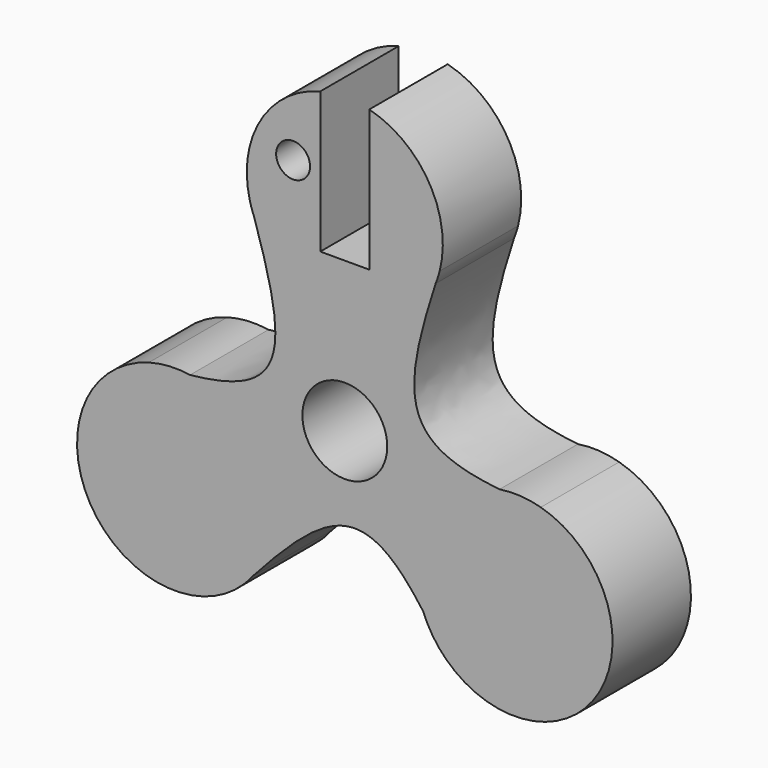
from build123d import *

# Parameters (mm, degrees)
F0_R     = 4.397379136
F0_R_2   = 11
F1_DEPTH = 25.4


with BuildPart() as f1:
    # F0 (on Front) → F1 (new body)
    with BuildSketch(Plane.XZ):
        with BuildLine():
            Line((-6.35, 38.8374630521), (-6.35, 75.3934442487))
            ThreePointArc((-6.35, 75.3934442487), (-21.8803192616, 63.7000631404), (-24.5934442487, 44.4499999999))
            add(Edge.make_bspline(
                [(-24.5934442484, 44.45), (-24.330453279, 43.66325979), (-24.073769767, 42.889264168), (-23.8236859723, 42.1278304497)],
                knots=[0, 0, 0, 0, 1.1973786992, 1.1973786992, 1.1973786992, 1.1973786992], degree=3))
            ThreePointArc((-23.8236859723, 42.1278304497), (-23.1577448216, 40.4649595183), (-22.4072076306, 38.8385182267))
            ThreePointArc((-22.4072076306, 38.8385182267), (1.3327234332, 25.4349877141), (23.5373268657, 41.2525268248))
            add(Edge.make_bspline(
                [(24.5934442484, 44.45), (24.2290357969, 43.3598683413), (23.8767374958, 42.2942059525), (23.5373268657, 41.2525268248)],
                knots=[0, 0, 0, 0, 1.6591250973, 1.6591250973, 1.6591250973, 1.6591250973], degree=3))
            ThreePointArc((24.5934442487, 44.4499999999), (21.8803192616, 63.7000631404), (6.35, 75.3934442487))
            Line((6.35, 75.3934442487), (6.35, 38.8374630521))
            Line((6.35, 38.8374630521), (-6.35, 38.8374630521))
        make_face()
        with Locations((-13.3996298537, 57.4035979807)):
            Circle(F0_R, mode=Mode.SUBTRACT)
        with BuildLine():
            ThreePointArc((-23.8236859723, 42.1278304497), (-24.2289562878, 43.2821559089), (-24.5934442484, 44.45))
            ThreePointArc((-24.5934442487, 44.4499999999), (-24.1184315554, 42.833742452), (-23.5373268657, 41.2525268248))
            add(Edge.make_bspline(
                [(-23.8236859723, 42.1278304497), (-23.7272458974, 41.8341979698), (-23.6317872751, 41.542433587), (-23.5373268657, 41.2525268248)],
                knots=[1.1973786992, 1.1973786992, 1.1973786992, 1.1973786992, 1.6591250973, 1.6591250973, 1.6591250973, 1.6591250973], degree=3))
        make_face()
        with BuildLine():
            add(Edge.make_bspline(
                [(-24.5934442484, 44.45), (-24.330453279, 43.66325979), (-24.073769767, 42.889264168), (-23.8236859723, 42.1278304497)],
                knots=[0, 0, 0, 0, 1.1973786992, 1.1973786992, 1.1973786992, 1.1973786992], degree=3))
            ThreePointArc((-24.5934442484, 44.45), (-24.2289562878, 43.2821559089), (-23.8236859723, 42.1278304497))
        make_face()
        with BuildLine():
            add(Edge.make_bspline(
                [(-23.8236859723, 42.1278304497), (-23.7272458974, 41.8341979698), (-23.6317872751, 41.542433587), (-23.5373268657, 41.2525268248)],
                knots=[1.1973786992, 1.1973786992, 1.1973786992, 1.1973786992, 1.6591250973, 1.6591250973, 1.6591250973, 1.6591250973], degree=3))
            ThreePointArc((-23.5373268657, 41.2525268248), (-23.0039544839, 40.0306881317), (-22.4072076306, 38.8385182267))
            ThreePointArc((-22.4072076306, 38.8385182267), (-23.1577448216, 40.4649595183), (-23.8236859723, 42.1278304497))
        make_face()
        with BuildLine():
            ThreePointArc((-22.4072076306, 38.8385182267), (-23.0039544839, 40.0306881317), (-23.5373268657, 41.2525268248))
            add(Edge.make_bspline(
                [(-23.5373268657, 41.2525268248), (-14.3034776318, 12.9130843808), (-14.6083268697, 2.3246455259), (-40.1079870257, -0.2990398651)],
                knots=[1.6591250973, 1.6591250973, 1.6591250973, 1.6591250973, 46.7965181263, 46.7965181263, 46.7965181263, 46.7965181263], degree=3))
            ThreePointArc((-40.1079870257, -0.2990398651), (-24.7085126293, -8.8704360093), (-18.5940905122, -25.4))
            ThreePointArc((-18.5940905122, -25.4), (-19.5722888506, -32.3810889981), (-22.4315396146, -38.8244701491))
            ThreePointArc((-22.4315396146, -38.8244701491), (-23.1656156125, -39.9373530379), (-23.9570727704, -41.0101864183))
            add(Edge.make_bspline(
                [(-23.9570727704, -41.0101864183), (-4.0313203, -18.8437171825), (5.290961354, -13.813504938), (20.3129696328, -34.5850157264)],
                knots=[1.6591250952, 1.6591250952, 1.6591250952, 1.6591250952, 46.7965181263, 46.7965181263, 46.7965181263, 46.7965181263], degree=3))
            ThreePointArc((20.3129696328, -34.5850157264), (21.9970452561, -12.7), (40.1079870257, -0.2990398651))
            add(Edge.make_bspline(
                [(23.5373268657, 41.2525268248), (14.3034776318, 12.9130843808), (14.6083268697, 2.3246455259), (40.1079870257, -0.2990398651)],
                knots=[1.6591250973, 1.6591250973, 1.6591250973, 1.6591250973, 46.7965181263, 46.7965181263, 46.7965181263, 46.7965181263], degree=3))
            ThreePointArc((23.5373268657, 41.2525268248), (1.3327234332, 25.4349877141), (-22.4072076306, 38.8385182267))
        make_face()
        Circle(F0_R_2, mode=Mode.SUBTRACT)
        with BuildLine():
            add(Edge.make_bspline(
                [(-40.1079870257, -0.2990398651), (-43.2714472069, -0.624531429), (-46.8226710099, -0.8274405429), (-50.7915513224, -0.9264525143)],
                knots=[46.7965181263, 46.7965181263, 46.7965181263, 46.7965181263, 52.396214148, 52.396214148, 52.396214148, 52.396214148], degree=3))
            ThreePointArc((-40.1079870257, -0.2990398651), (-45.4831882339, -0.0436874137), (-50.7915513224, -0.9264525143))
        make_face()
        with BuildLine():
            ThreePointArc((-18.5940905122, -25.4), (-24.7085126293, -8.8704360093), (-40.1079870257, -0.2990398651))
            add(Edge.make_bspline(
                [(-40.1079870257, -0.2990398651), (-43.2714472069, -0.624531429), (-46.8226710099, -0.8274405429), (-50.7915513224, -0.9264525143)],
                knots=[46.7965181263, 46.7965181263, 46.7965181263, 46.7965181263, 52.396214148, 52.396214148, 52.396214148, 52.396214148], degree=3))
            ThreePointArc((-50.7915513224, -0.9264525143), (-65.9911357684, -38.1), (-26.198107074, -43.5235474857))
            add(Edge.make_bspline(
                [(-26.198107074, -43.5235474857), (-25.6482655513, -42.902420521), (-25.106307437, -42.2931282687), (-24.5719283917, -41.6958324909)],
                knots=[0, 0, 0, 0, 1.1973786977, 1.1973786977, 1.1973786977, 1.1973786977], degree=3))
            ThreePointArc((-24.5719283917, -41.6958324909), (-23.4648104963, -40.2876750702), (-22.4315396146, -38.8244701491))
            ThreePointArc((-22.4315396146, -38.8244701491), (-19.5722888506, -32.3810889981), (-18.5940905122, -25.4))
        make_face()
        with BuildLine():
            add(Edge.make_bspline(
                [(24.5934442484, 44.45), (24.2290357969, 43.3598683413), (23.8767374958, 42.2942059525), (23.5373268657, 41.2525268248)],
                knots=[0, 0, 0, 0, 1.6591250973, 1.6591250973, 1.6591250973, 1.6591250973], degree=3))
            ThreePointArc((23.5373268657, 41.2525268248), (24.1184315554, 42.833742452), (24.5934442487, 44.4499999999))
        make_face()
        with BuildLine():
            add(Edge.make_bspline(
                [(40.1079870257, -0.2990398651), (43.2714472069, -0.624531429), (46.8226710099, -0.8274405429), (50.7915513224, -0.9264525143)],
                knots=[46.7965181263, 46.7965181263, 46.7965181263, 46.7965181263, 52.396214148, 52.396214148, 52.396214148, 52.396214148], degree=3))
            ThreePointArc((40.1079870257, -0.2990398651), (21.9970452561, -12.7), (20.3129696328, -34.5850157264))
            add(Edge.make_bspline(
                [(20.3129696328, -34.5850157264), (22.1765836864, -37.1619068252), (24.1279200352, -40.1359022962), (26.198107074, -43.5235474857)],
                knots=[46.7965181263, 46.7965181263, 46.7965181263, 46.7965181263, 52.396214148, 52.396214148, 52.396214148, 52.396214148], degree=3))
            ThreePointArc((26.198107074, -43.5235474857), (53.8211455306, -48.8219766387), (69.3940905122, -25.4))
            ThreePointArc((69.3940905122, -25.4), (64.2155581219, -10.0295007332), (50.7915513224, -0.9264525143))
        make_face()
        with BuildLine():
            ThreePointArc((50.7915513224, -0.9264525143), (45.4831882339, -0.0436874137), (40.1079870257, -0.2990398651))
            add(Edge.make_bspline(
                [(40.1079870257, -0.2990398651), (43.2714472069, -0.624531429), (46.8226710099, -0.8274405429), (50.7915513224, -0.9264525143)],
                knots=[46.7965181263, 46.7965181263, 46.7965181263, 46.7965181263, 52.396214148, 52.396214148, 52.396214148, 52.396214148], degree=3))
        make_face()
        with BuildLine():
            ThreePointArc((-23.9570727704, -41.0101864183), (-23.1656156125, -39.9373530379), (-22.4315396146, -38.8244701491))
            ThreePointArc((-22.4315396146, -38.8244701491), (-23.4648104963, -40.2876750702), (-24.5719283917, -41.6958324909))
            add(Edge.make_bspline(
                [(-24.5719283917, -41.6958324909), (-24.3658552424, -41.4654966965), (-24.1609091864, -41.2369449133), (-23.9570727704, -41.0101864183)],
                knots=[1.1973786977, 1.1973786977, 1.1973786977, 1.1973786977, 1.6591250952, 1.6591250952, 1.6591250952, 1.6591250952], degree=3))
        make_face()
        with BuildLine():
            ThreePointArc((-24.5719283917, -41.6958324909), (-25.3689684049, -42.623969608), (-26.198107074, -43.5235474857))
            ThreePointArc((-26.198107074, -43.5235474857), (-25.0358933264, -42.3040456537), (-23.9570727704, -41.0101864183))
            add(Edge.make_bspline(
                [(-24.5719283917, -41.6958324909), (-24.3658552424, -41.4654966965), (-24.1609091864, -41.2369449133), (-23.9570727704, -41.0101864183)],
                knots=[1.1973786977, 1.1973786977, 1.1973786977, 1.1973786977, 1.6591250952, 1.6591250952, 1.6591250952, 1.6591250952], degree=3))
        make_face()
        with BuildLine():
            add(Edge.make_bspline(
                [(-26.198107074, -43.5235474857), (-25.6482655513, -42.902420521), (-25.106307437, -42.2931282687), (-24.5719283917, -41.6958324909)],
                knots=[0, 0, 0, 0, 1.1973786977, 1.1973786977, 1.1973786977, 1.1973786977], degree=3))
            ThreePointArc((-26.198107074, -43.5235474857), (-25.3689684049, -42.623969608), (-24.5719283917, -41.6958324909))
        make_face()
        with BuildLine():
            add(Edge.make_bspline(
                [(20.3129696328, -34.5850157264), (22.1765836864, -37.1619068252), (24.1279200352, -40.1359022962), (26.198107074, -43.5235474857)],
                knots=[46.7965181263, 46.7965181263, 46.7965181263, 46.7965181263, 52.396214148, 52.396214148, 52.396214148, 52.396214148], degree=3))
            ThreePointArc((20.3129696328, -34.5850157264), (22.779428527, -39.3677527488), (26.198107074, -43.5235474857))
        make_face()
    extrude(amount=F1_DEPTH)


solid = f1.part
